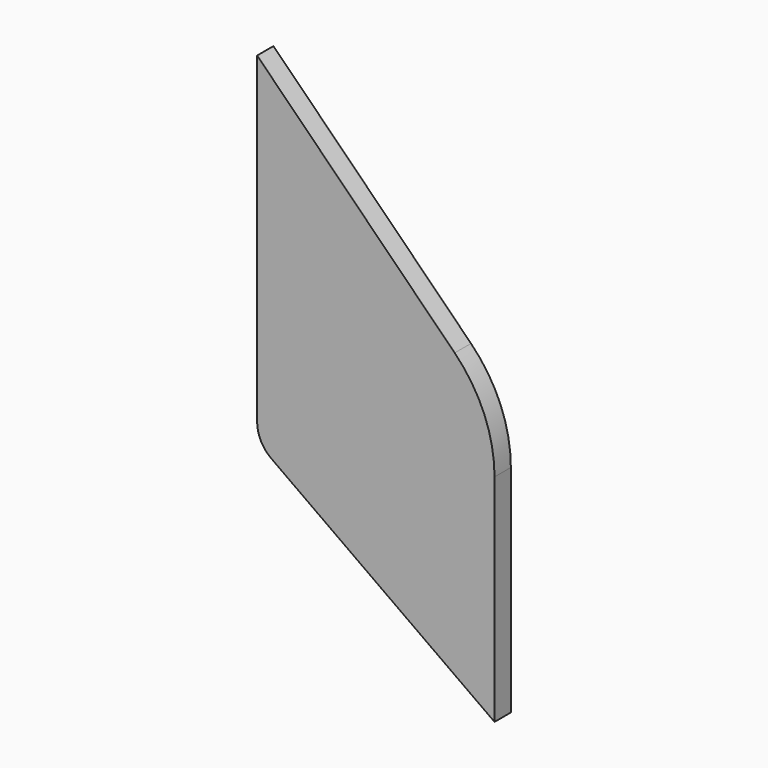
from build123d import *

# Parameters (mm, degrees)
PAD008_DEPTH            = 1.5
FILLET010_R             = 20
FILLET011_R             = 5
BODY009_PLACEMENT_ANGLE = 90


with BuildPart() as part:
    # Sketch013 → Pad008 (new body, symmetric)
    with BuildSketch(Plane.YZ):
        Polygon((27, -2.5), (61.9, -27.4), (61.9, 12.6), (27, 47.5), align=None)
    extrude(amount=PAD008_DEPTH, both=True)

    # Fillet010
    fillet010_edges = [part.edges().sort_by_distance(p)[0] for p in [
        (0, 61.9, 12.6),
    ]]
    fillet(fillet010_edges, radius=FILLET010_R)

    # Fillet011
    fillet011_edges = [part.edges().sort_by_distance(p)[0] for p in [
        (0, 27, -2.5),
    ]]
    fillet(fillet011_edges, radius=FILLET011_R)


with BuildPart() as part_1:
    # Body009 placement: moved
    add(part.part.moved(Location((30, 0, 0))).rotate(Axis((30, 0, 0), (0, 0, -1)), BODY009_PLACEMENT_ANGLE))


solid = part_1.part
